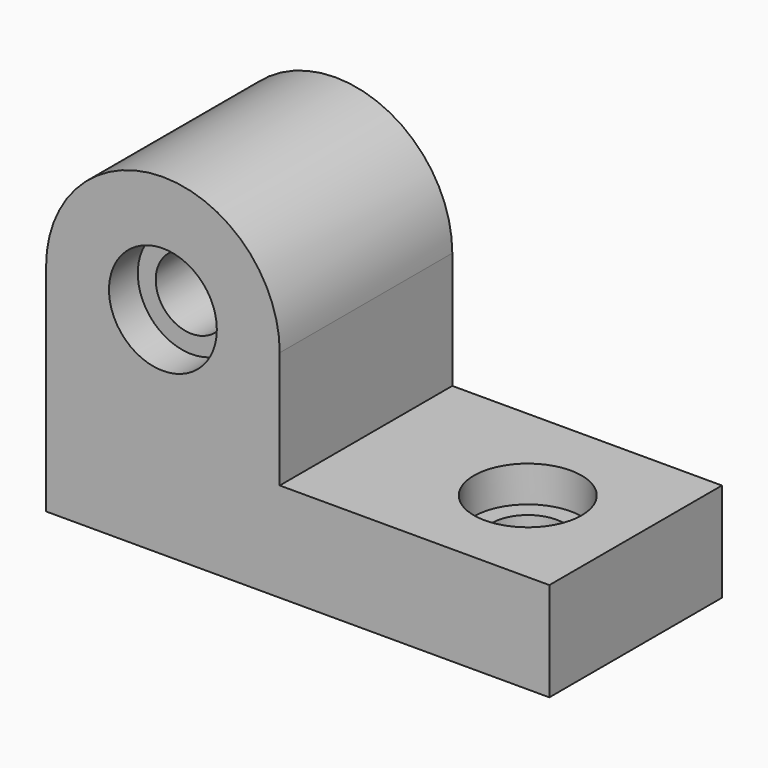
from build123d import *

# Parameters (mm, degrees)
F1_DEPTH  = 76.2
F3_DEPTH  = 76.2
F4_R      = 19.05
F4_R_2    = 6.35
F5_DEPTH  = 12.7
F6_DEPTH  = 76.2
F7_R      = 19.05
F7_R_2    = 6.35
F8_DEPTH  = 12.7
F9_DEPTH  = 127
F10_R     = 12.7
F10_R_2   = 6.35
F11_DEPTH = 152.4
F12_R     = 12.7
F13_DEPTH = 127


with BuildPart() as f1:
    # F0 (on Front) → F1 (new body)
    with BuildSketch(Plane.XZ):
        Polygon((0, 161.925), (0, 0), (177.8, 0), (177.8, 34.925), (82.55, 34.925), (82.55, 161.925), align=None)
    extrude(amount=F1_DEPTH)

    # F2 (on face) → F3 (cut, through all)
    with BuildSketch(Plane.XZ.offset(76.2)):
        with BuildLine():
            ThreePointArc((0, 76.2), (41.275, 117.475), (82.55, 76.2))
            Line((82.55, 76.2), (82.55, 161.925))
            Line((82.55, 161.925), (0, 161.925))
            Line((0, 161.925), (0, 76.2))
        make_face()
    extrude(amount=-F3_DEPTH, mode=Mode.SUBTRACT)

    # F4 (on face) → F5 (cut)
    with BuildSketch(Plane.XY.offset(34.925)):
        with Locations((139.7, -38.1)):
            Circle(F4_R)
        with Locations((139.7, -38.1)):
            Circle(F4_R_2, mode=Mode.SUBTRACT)
    extrude(amount=-F5_DEPTH, mode=Mode.SUBTRACT)

    # F6 (cut): a face of the model
    f6_faces = [f1.faces().sort_by_distance(p)[0] for p in [
        (139.7, -38.1, 34.925),
    ]]
    extrude(f6_faces, amount=-F6_DEPTH, mode=Mode.SUBTRACT)

    # F7 (on face) → F8 (cut)
    with BuildSketch(Plane.XZ.offset(76.2)):
        with Locations((41.275, 76.2)):
            Circle(F7_R)
        with Locations((41.275, 76.2)):
            Circle(F7_R_2, mode=Mode.SUBTRACT)
    extrude(amount=-F8_DEPTH, mode=Mode.SUBTRACT)

    # F9 (cut): a face of the model
    f9_faces = [f1.faces().sort_by_distance(p)[0] for p in [
        (41.275, -76.2, 76.2),
    ]]
    extrude(f9_faces, amount=-F9_DEPTH, mode=Mode.SUBTRACT)

    # F10 (on face) → F11 (cut)
    with BuildSketch(Plane.XZ.offset(63.5)):
        with Locations((41.275, 76.2)):
            Circle(F10_R)
        with Locations((41.275, 76.2)):
            Circle(F10_R_2, mode=Mode.SUBTRACT)
    extrude(amount=-F11_DEPTH, mode=Mode.SUBTRACT)

    # F12 (on face) → F13 (cut)
    with BuildSketch(Plane.XY.offset(22.225)):
        with Locations((139.7, -38.1)):
            Circle(F12_R)
    extrude(amount=-F13_DEPTH, mode=Mode.SUBTRACT)


solid = f1.part
